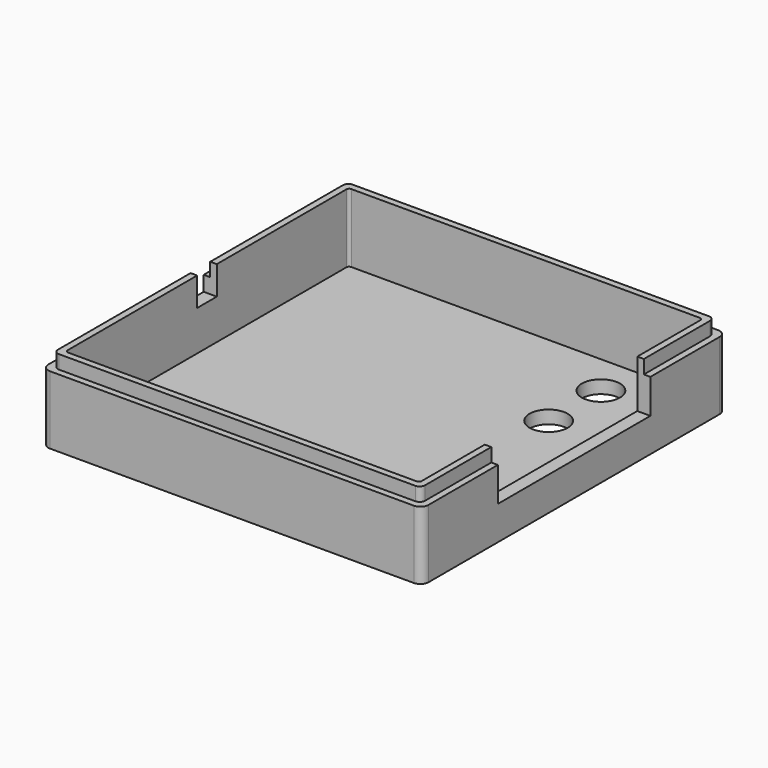
from build123d import *

# Parameters (mm, degrees)
SKETCH001_W     = 139.6
SKETCH001_H     = 139.6
PAD_DEPTH       = 25
SKETCH003_W     = 134.8
SKETCH003_H     = 134.8
PAD001_DEPTH    = 5
SKETCH002_W     = 130
SKETCH002_H     = 130
POCKET_DEPTH    = 25.2
SKETCH005_W     = 70
SKETCH005_H     = 17.6
POCKET001_DEPTH = 5
SKETCH006_W     = 9
SKETCH006_H     = 10.5
POCKET002_DEPTH = 5
SKETCH007_R     = 7
HOLE_DEPTH      = 25
FILLET_R        = 3
FILLET001_R     = 3
FILLET002_R     = 3
FILLET003_R     = 3
FILLET004_R     = 2
FILLET005_R     = 2
FILLET006_R     = 2
FILLET007_R     = 2
FILLET008_R     = 1
FILLET009_R     = 1
FILLET010_R     = 1
FILLET011_R     = 1


with BuildPart() as part:
    # Sketch001 → Pad (new body)
    with BuildSketch(Plane.XY):
        Rectangle(SKETCH001_W, SKETCH001_H)
    extrude(amount=PAD_DEPTH)

    # Sketch003 (on Face6 of Pad) → Pad001 (join)
    with BuildSketch(Plane.XY.offset(25)):
        Rectangle(SKETCH003_W, SKETCH003_H)
    extrude(amount=PAD001_DEPTH)

    # Sketch002 (on Face11 of Pad001) → Pocket (cut)
    with BuildSketch(Plane.XY.offset(30)):
        Rectangle(SKETCH002_W, SKETCH002_H)
    extrude(amount=-POCKET_DEPTH, mode=Mode.SUBTRACT)

    # Sketch005 (on Face3 of Pocket) → Pocket001 (cut)
    with BuildSketch(Plane.YZ.offset(69.8)):
        with Locations((0, 21.2)):
            Rectangle(SKETCH005_W, SKETCH005_H)
    extrude(amount=-POCKET001_DEPTH, mode=Mode.SUBTRACT)

    # Sketch006 (on Face2 of Pocket001) → Pocket002 (cut)
    with BuildSketch(Plane(origin=(-69.8, 0, 0), x_dir=(0, -1, 0), z_dir=(-1, 0, 0))):
        with Locations((0, 24.75)):
            Rectangle(SKETCH006_W, SKETCH006_H)
    extrude(amount=-POCKET002_DEPTH, mode=Mode.SUBTRACT)

    # Sketch007 (on Face25 of Pocket002) → Hole (cut)
    with BuildSketch(Plane.XY.offset(4.8)):
        with Locations((39.8, 49.8)):
            Circle(SKETCH007_R)
        with Locations((39.8, 25.8)):
            Circle(SKETCH007_R)
        with Locations((39.8, -49.8)):
            Circle(SKETCH007_R)
    extrude(amount=-HOLE_DEPTH, mode=Mode.SUBTRACT)

    # Fillet
    fillet_edges = [part.edges().sort_by_distance(p)[0] for p in [
        (-69.8, 69.8, 12.5),
    ]]
    fillet(fillet_edges, radius=FILLET_R)

    # Fillet001
    fillet001_edges = [part.edges().sort_by_distance(p)[0] for p in [
        (69.8, 69.8, 12.5),
    ]]
    fillet(fillet001_edges, radius=FILLET001_R)

    # Fillet002
    fillet002_edges = [part.edges().sort_by_distance(p)[0] for p in [
        (69.8, -69.8, 12.5),
    ]]
    fillet(fillet002_edges, radius=FILLET002_R)

    # Fillet003
    fillet003_edges = [part.edges().sort_by_distance(p)[0] for p in [
        (-69.8, -69.8, 12.5),
    ]]
    fillet(fillet003_edges, radius=FILLET003_R)

    # Fillet004
    fillet004_edges = [part.edges().sort_by_distance(p)[0] for p in [
        (-67.4, -67.4, 27.5),
    ]]
    fillet(fillet004_edges, radius=FILLET004_R)

    # Fillet005
    fillet005_edges = [part.edges().sort_by_distance(p)[0] for p in [
        (-67.4, 67.4, 27.5),
    ]]
    fillet(fillet005_edges, radius=FILLET005_R)

    # Fillet006
    fillet006_edges = [part.edges().sort_by_distance(p)[0] for p in [
        (67.4, 67.4, 27.5),
    ]]
    fillet(fillet006_edges, radius=FILLET006_R)

    # Fillet007
    fillet007_edges = [part.edges().sort_by_distance(p)[0] for p in [
        (67.4, -67.4, 27.5),
    ]]
    fillet(fillet007_edges, radius=FILLET007_R)

    # Fillet008
    fillet008_edges = [part.edges().sort_by_distance(p)[0] for p in [
        (-65, 65, 17.4),
    ]]
    fillet(fillet008_edges, radius=FILLET008_R)

    # Fillet009
    fillet009_edges = [part.edges().sort_by_distance(p)[0] for p in [
        (-65, -65, 17.4),
    ]]
    fillet(fillet009_edges, radius=FILLET009_R)

    # Fillet010
    fillet010_edges = [part.edges().sort_by_distance(p)[0] for p in [
        (65, -65, 17.4),
    ]]
    fillet(fillet010_edges, radius=FILLET010_R)

    # Fillet011
    fillet011_edges = [part.edges().sort_by_distance(p)[0] for p in [
        (65, 65, 17.4),
    ]]
    fillet(fillet011_edges, radius=FILLET011_R)


solid = part.part
